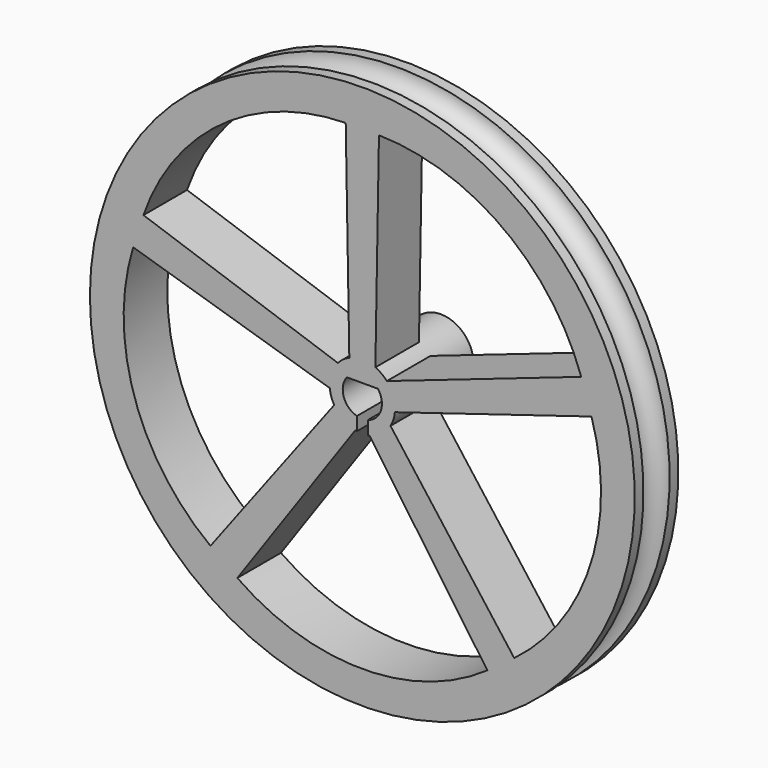
from build123d import *

# Parameters (mm, degrees)
BOX003_W                    = 10
BOX003_H                    = 10
BOX003_DEPTH                = 10
CYLINDER002_R               = 1.8
CYLINDER002_DEPTH           = 9
BOX030_W                    = 1
BOX030_H                    = 2
BOX030_DEPTH                = 9
CYLINDER010_R               = 3
CYLINDER010_DEPTH           = 9
CYLINDER012_W               = 20
CYLINDER012_H               = 10
CYLINDER012_ANGLE           = 70
CYLINDER012_PLACEMENT_ANGLE = 235
ARRAY_COUNT                 = 5
TORUS_R                     = 1.5
CYLINDER_R                  = 25
CYLINDER_DEPTH              = 5
CUT024_ROLL_ANGLE           = 90
CUT024_PLACEMENT_ANGLE      = 180


with BuildPart() as cube002:
    # Box003 → Box003 (new body)
    with BuildSketch(Plane(origin=(-3, 1.1, 0), x_dir=(1, 0, 0), z_dir=(0, 0, 1))):
        with Locations((5, 5)):
            Rectangle(BOX003_W, BOX003_H)
    extrude(amount=BOX003_DEPTH)


with BuildPart() as shafthole:
    # Cylinder002 → Cylinder002 (new body)
    with BuildSketch(Plane.XY):
        Circle(CYLINDER002_R)
    extrude(amount=CYLINDER002_DEPTH)

    # Cut002: cut Cube002
    add(cube002.part, mode=Mode.SUBTRACT)


with BuildPart() as fusion015:
    # Box030 → Box030 (new body)
    with BuildSketch(Plane(origin=(-0.5, -3.5, 0), x_dir=(1, 0, 0), z_dir=(0, 0, 1))):
        with Locations((0.5, 1)):
            Rectangle(BOX030_W, BOX030_H)
    extrude(amount=BOX030_DEPTH)

    # Fusion015: union shaftHole
    add(shafthole.part)


with BuildPart() as cylinder010:
    # Cylinder010 → Cylinder010 (new body)
    with BuildSketch(Plane.XY):
        Circle(CYLINDER010_R)
    extrude(amount=CYLINDER010_DEPTH)


with BuildPart() as array022:
    # Cylinder012 → Cylinder012 (revolve)
    with BuildSketch(Plane.XZ):
        with Locations((10, 5)):
            Rectangle(CYLINDER012_W, CYLINDER012_H)
    revolve(axis=Axis((0, 0, 0), (0, 0, 1)), revolution_arc=CYLINDER012_ANGLE)


with BuildPart() as array022_1:
    # Cylinder012 placement: moved
    add(array022.part.moved(Location((0, -2, 0))).rotate(Axis((0, -2, 0), (0, 0, 1)), CYLINDER012_PLACEMENT_ANGLE))

    # Array: Array022 ×5 about axis
    array_axis = Axis((0, 0, 0), (0, 0, 1))


with BuildPart() as array022_2:
    add(array022_1.part)
    for i in range(1, ARRAY_COUNT):
        add(array022_1.part.rotate(array_axis, i * 360 / ARRAY_COUNT))


with BuildPart() as torus:
    # Torus → Torus (revolve)
    with BuildSketch(Plane(origin=(0, 0, 2.5), x_dir=(1, 0, 0), z_dir=(0, -1, 0))):
        with Locations((25, 0)):
            Circle(TORUS_R)
    revolve(axis=Axis((0, 0, 2.5), (0, 0, 1)))


with BuildPart() as wheel:
    # Cylinder → Cylinder (new body)
    with BuildSketch(Plane.XY):
        Circle(CYLINDER_R)
    extrude(amount=CYLINDER_DEPTH)

    # Cut001: cut Torus
    add(torus.part, mode=Mode.SUBTRACT)

    # Cut023: cut Array022
    add(array022_2.part, mode=Mode.SUBTRACT)

    # Fusion016: union Cylinder010
    add(cylinder010.part)

    # Cut024: cut Fusion015
    add(fusion015.part, mode=Mode.SUBTRACT)


with BuildPart() as wheel_1:
    # Cut024 roll: moved
    add(wheel.part.rotate(Axis((0, 0, 0), (1, 0, 0)), CUT024_ROLL_ANGLE))


with BuildPart() as wheel_2:
    # Cut024 placement: moved
    add(wheel_1.part.moved(Location((-10.9, -46, 9.8))).rotate(Axis((-10.9, -46, 9.8), (0, 0, 1)), CUT024_PLACEMENT_ANGLE))


solid = wheel_2.part
